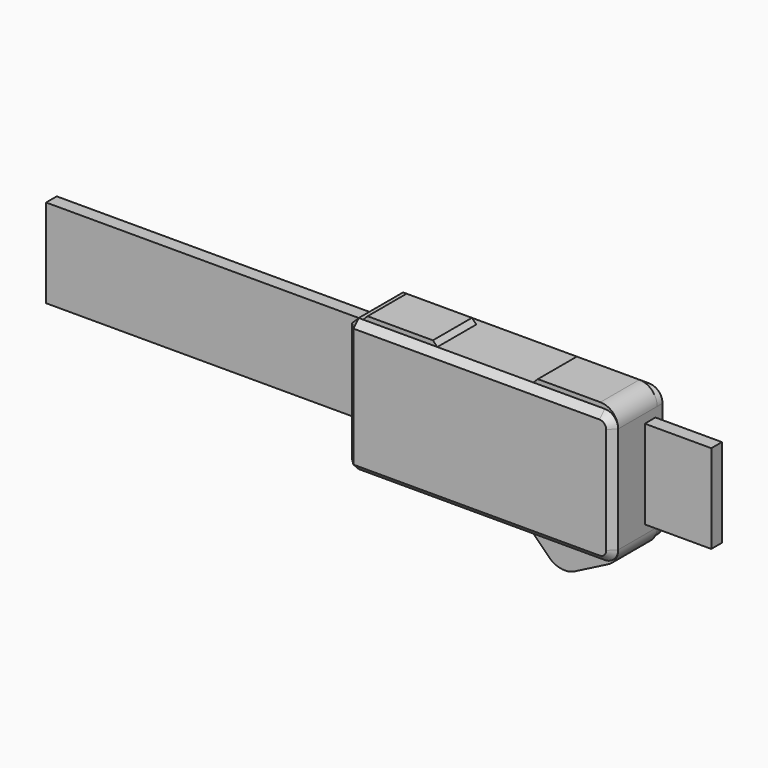
from build123d import *

# Parameters (mm, degrees)
F0_W     = 60
F0_H     = 30
F1_DEPTH = 14
F2_R     = 3
F3_SIZE  = 1.5
F6_DEPTH = 11
F7_W     = 3
F7_H     = 20
F8_DEPTH = 60.001
F9_DEPTH = 75


with BuildPart() as f1:
    # F0 (on Front) → F1 (new body)
    with BuildSketch(Plane.XZ):
        Rectangle(F0_W, F0_H)
    extrude(amount=F1_DEPTH)

    # F2
    f2_edges = [f1.edges().sort_by_distance(p)[0] for p in [
        (30, -7, -15),
        (30, -7, 15),
    ]]
    fillet(f2_edges, radius=F2_R)

    # F3
    f3_edges = [f1.edges().sort_by_distance(p)[0] for p in [
        (-1.5, -14, 15),
        (29.12132, -14, 14.12132),
        (30, -14, 0),
        (29.12132, -14, -14.12132),
        (-1.5, -14, -15),
        (-30, -14, 0),
        (-30, -7, 15),
        (-30, -7, -15),
    ]]
    chamfer(f3_edges, length=F3_SIZE)

    # F5 (on offset) → F6 (join)
    with BuildSketch(Plane.XZ.offset(12.5)):
        with BuildLine():
            ThreePointArc((30, -12), (29.1213203436, -14.1213203436), (27, -15))
            Line((27, -15), (10.8885337886, -15))
            Line((10.8885337886, -15), (14.4240676946, -18.5355339059))
            ThreePointArc((14.4240676946, -18.5355339059), (17.1840210877, -19.9394812347), (20.2414378644, -19.4489575481))
            Line((20.2414378644, -19.4489575481), (27.8254690111, -15.5591660385))
            ThreePointArc((27.8254690111, -15.5591660385), (29.413347041, -14.0854404757), (30, -12))
        make_face()
        with BuildLine():
            Line((11.8885337886, 16), (10.8885337886, 15))
            Line((10.8885337886, 15), (27, 15))
            ThreePointArc((27, 15), (29.1213203436, 14.1213203436), (30, 12))
            ThreePointArc((30, 12), (28.8284271247, 14.8284271247), (26, 16))
            Line((26, 16), (11.8885337886, 16))
        make_face()
        Polygon((-26.5, 16), (-27.5, 15), (-10.7737448623, 15), (-11.7737448623, 16), align=None)
    extrude(amount=-F6_DEPTH)

    # F7 (on face) → F8 (cut, through all)
    with BuildSketch(Plane(origin=(-30, 0, 0), x_dir=(0, -1, 0), z_dir=(-1, 0, 0))):
        with Locations((3.5, 0)):
            Rectangle(F7_W, F7_H)
    extrude(amount=-F8_DEPTH, mode=Mode.SUBTRACT)


with BuildPart() as f9:
    # F7 (on face) → F9 (new body, symmetric)
    with BuildSketch(Plane(origin=(-30, 0, 0), x_dir=(0, -1, 0), z_dir=(-1, 0, 0))):
        with Locations((3.5, 0)):
            Rectangle(F7_W, F7_H)
    extrude(amount=F9_DEPTH, both=True)


solid = Compound([f1.part, f9.part])
